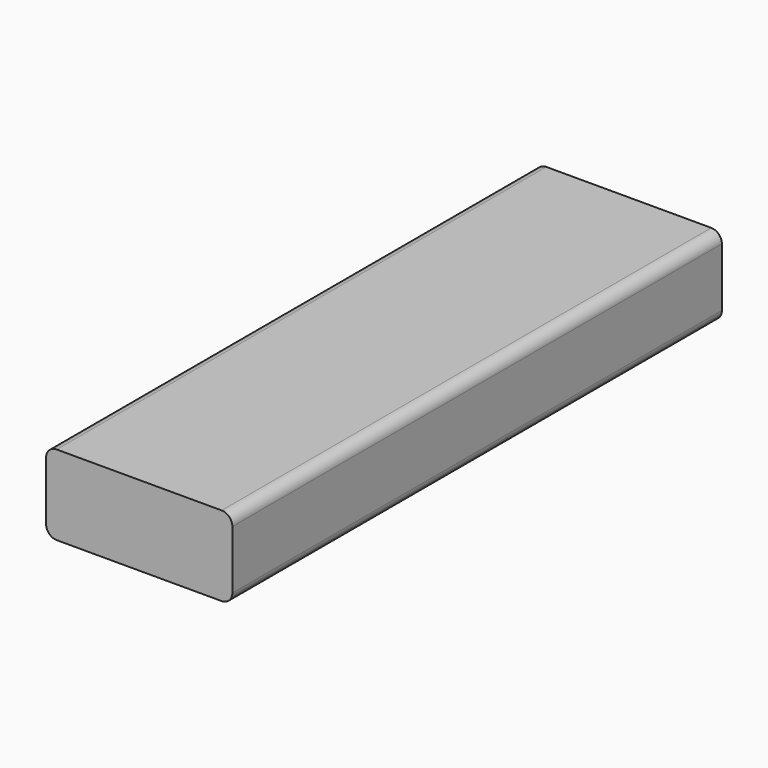
from build123d import *

# Parameters (mm, degrees)
F0_W     = 88.9
F0_H     = 292.1
F1_DEPTH = 38.1
F2_R     = 5.08
F3_R     = 5.08


with BuildPart() as f1:
    # F0 (on Top) → F1 (new body)
    with BuildSketch(Plane.XY):
        with Locations((-29.955483, 99.776556)):
            Rectangle(F0_W, F0_H)
    extrude(amount=F1_DEPTH)

    # F2
    f2_edges = [f1.edges().sort_by_distance(p)[0] for p in [
        (14.494517, 99.776556, 38.1),
    ]]
    fillet(f2_edges, radius=F2_R)

    # F3
    f3_edges = [f1.edges().sort_by_distance(p)[0] for p in [
        (-74.405483, 99.776556, 38.1),
        (14.494517, 99.776556, 0),
        (-74.405483, 99.776556, 0),
    ]]
    fillet(f3_edges, radius=F3_R)


solid = f1.part
